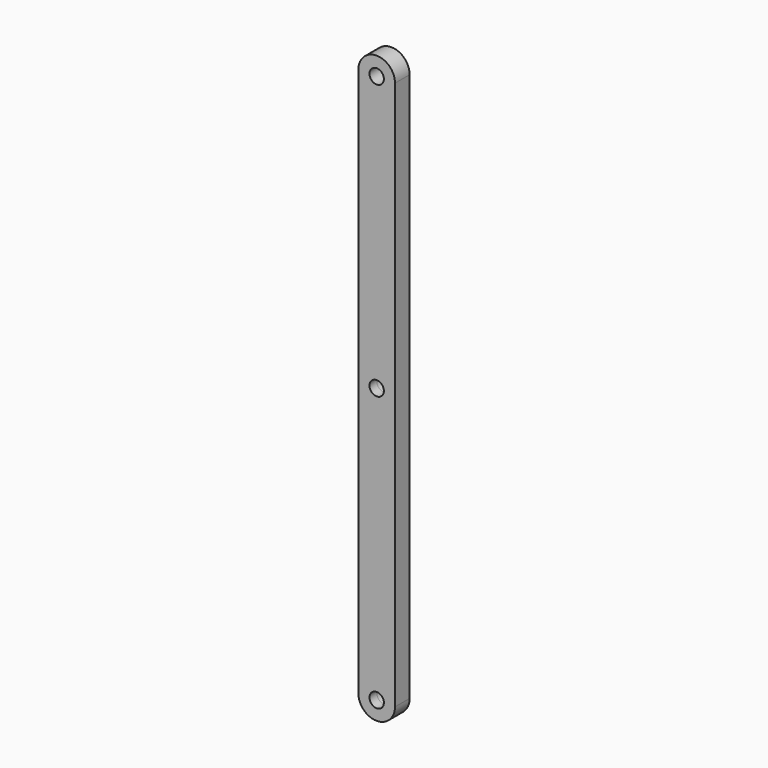
from build123d import *

# Parameters (mm, degrees)
F0_R     = 2.5
F1_DEPTH = 3.175


with BuildPart() as f1:
    # F0 (on Front) → F1 (new body, symmetric)
    with BuildSketch(Plane.XZ):
        with BuildLine():
            ThreePointArc((12.7, 95.249999), (6.35, 101.600001), (0, 95.249999))
            Line((0, 95.249999), (0, 0))
            Line((0, 0), (3.85, 0))
            ThreePointArc((3.85, 0), (6.35, 2.5), (8.85, 0))
            Line((8.85, 0), (12.7, 0))
            Line((12.7, 0), (12.7, 95.249999))
        make_face()
        with Locations((6.35, 95.250001)):
            Circle(F0_R, mode=Mode.SUBTRACT)
        with BuildLine():
            Line((3.85, 0), (0, 0))
            Line((0, 0), (0, -95.249999))
            ThreePointArc((0, -95.249999), (6.35, -101.599999), (12.7, -95.249999))
            Line((12.7, -95.249999), (12.7, 0))
            Line((12.7, 0), (8.85, 0))
            ThreePointArc((8.85, 0), (6.35, -2.5), (3.85, 0))
        make_face()
        with Locations((6.35, -95.249999)):
            Circle(F0_R, mode=Mode.SUBTRACT)
    extrude(amount=F1_DEPTH, both=True)


solid = f1.part
